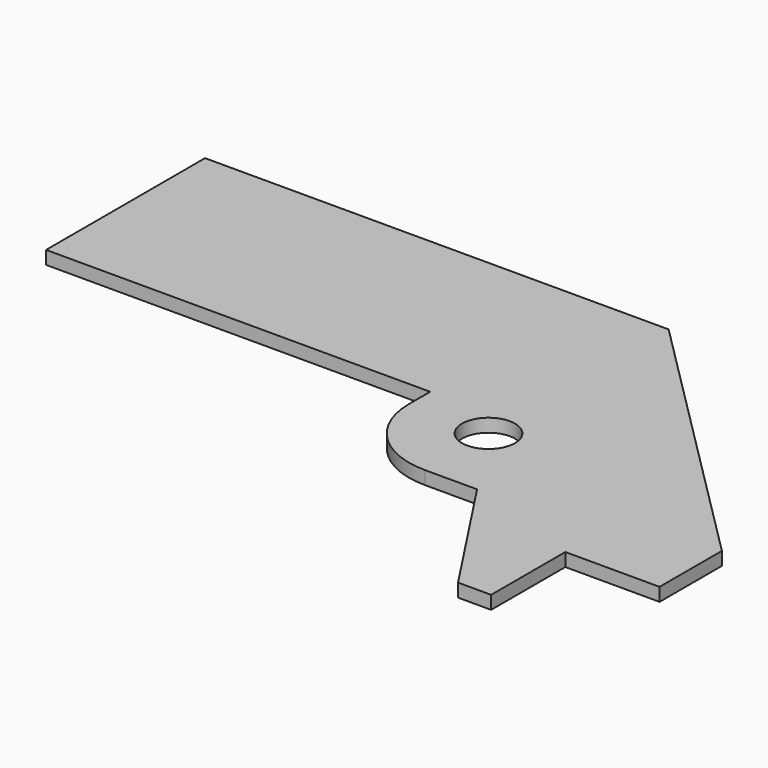
from build123d import *

# Parameters (mm, degrees)
F0_R     = 2
F1_DEPTH = 1


with BuildPart() as f1:
    # F0 (on Top) → F1 (new body)
    with BuildSketch(Plane.XY):
        with BuildLine():
            Line((-35, 15), (-35, 0))
            Line((-35, 0), (-6, 0))
            Line((-6, 0), (-6, -2))
            ThreePointArc((-6, -2), (-4.242641, -6.242641), (0, -8))
            Line((0, -8), (3.9375, -8))
            Line((3.9375, -8), (10.5, -18))
            Line((10.5, -18), (13, -18))
            Line((13, -18), (13, -11))
            Line((13, -11), (20.116628, -11))
            Line((20.116628, -11), (20.116628, -5.116628))
            Line((20.116628, -5.116628), (0, 15))
            Line((0, 15), (-35, 15))
        make_face()
        with Locations((0, -2)):
            Circle(F0_R, mode=Mode.SUBTRACT)
    extrude(amount=F1_DEPTH)


solid = f1.part
